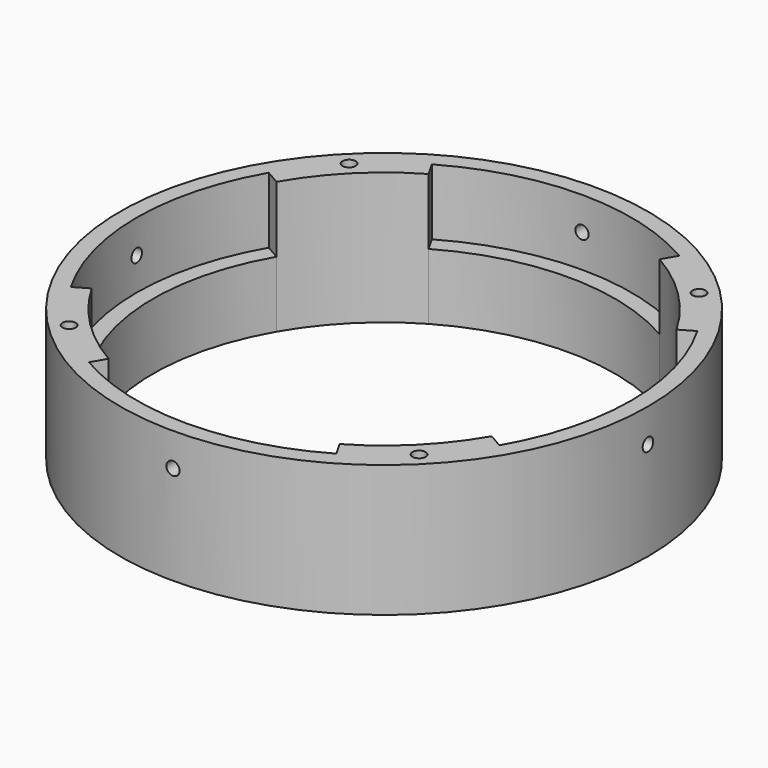
from build123d import *

# Parameters (mm, degrees)
F0_R            = 20
F1_DEPTH        = 10
F2_DEPTH        = 5
F3_DEPTH        = 5
F4_DEPTH        = 5
F5_DEPTH        = 5
F6_DEPTH        = 10
F7_DEPTH        = 10
F8_DEPTH        = 10
F9_DEPTH        = 10
F12_D           = 1
F12_DEPTH       = 20.001
F13_D           = 1
F13_DEPTH       = 20.0010001
F14_D           = 1
F15_D           = 1
F16_D           = 1
F16_CBORE_D     = 1.5
F16_CBORE_DEPTH = 1
F17_D           = 1
F17_CBORE_D     = 1.5
F17_CBORE_DEPTH = 1
F18_D           = 1
F18_CBORE_D     = 1.5
F18_CBORE_DEPTH = 1
F19_D           = 1
F19_CBORE_D     = 1.5
F19_CBORE_DEPTH = 1


with BuildPart() as f1:
    # F0 (on Top) → F1 (new body)
    with BuildSketch(Plane.XY):
        Circle(F0_R)
        with BuildLine():
            ThreePointArc((-16.237976321, -9.375), (-18.75, 0), (-16.237976321, 9.375))
            ThreePointArc((-16.237976321, 9.375), (-13.2582521472, 13.2582521472), (-9.375, 16.237976321))
            ThreePointArc((-9.375, 16.237976321), (0, 18.75), (9.375, 16.237976321))
            ThreePointArc((9.375, 16.237976321), (13.2582521472, 13.2582521472), (16.237976321, 9.375))
            ThreePointArc((16.237976321, 9.375), (18.75, 0), (16.237976321, -9.375))
            ThreePointArc((16.237976321, -9.375), (13.2582521472, -13.2582521472), (9.375, -16.237976321))
            ThreePointArc((9.375, -16.237976321), (0, -18.75), (-9.375, -16.237976321))
            ThreePointArc((-9.375, -16.237976321), (-13.2582521472, -13.2582521472), (-16.237976321, -9.375))
        make_face(mode=Mode.SUBTRACT)
    extrude(amount=F1_DEPTH)

    # F0 (on Top) → F2 (join)
    with BuildSketch(Plane.XY):
        with BuildLine():
            ThreePointArc((-15.1554445662, -8.75), (-17.5, 0), (-15.1554445662, 8.75))
            Line((-15.1554445662, 8.75), (-16.237976321, 9.375))
            ThreePointArc((-16.237976321, 9.375), (-18.75, 0), (-16.237976321, -9.375))
            Line((-16.237976321, -9.375), (-15.1554445662, -8.75))
        make_face()
    extrude(amount=F2_DEPTH)

    # F0 (on Top) → F3 (join)
    with BuildSketch(Plane.XY):
        with BuildLine():
            Line((-9.375, 16.237976321), (-8.75, 15.1554445662))
            ThreePointArc((-8.75, 15.1554445662), (0, 17.5), (8.75, 15.1554445662))
            Line((8.75, 15.1554445662), (9.375, 16.237976321))
            ThreePointArc((9.375, 16.237976321), (0, 18.75), (-9.375, 16.237976321))
        make_face()
    extrude(amount=F3_DEPTH)

    # F0 (on Top) → F4 (join)
    with BuildSketch(Plane.XY):
        with BuildLine():
            ThreePointArc((8.75, -15.1554445662), (0, -17.5), (-8.75, -15.1554445662))
            Line((-8.75, -15.1554445662), (-9.375, -16.237976321))
            ThreePointArc((-9.375, -16.237976321), (0, -18.75), (9.375, -16.237976321))
            Line((9.375, -16.237976321), (8.75, -15.1554445662))
        make_face()
    extrude(amount=F4_DEPTH)

    # F0 (on Top) → F5 (join)
    with BuildSketch(Plane.XY):
        with BuildLine():
            Line((16.237976321, 9.375), (15.1554445662, 8.75))
            ThreePointArc((15.1554445662, 8.75), (17.5, 0), (15.1554445662, -8.75))
            Line((15.1554445662, -8.75), (16.237976321, -9.375))
            ThreePointArc((16.237976321, -9.375), (18.75, 0), (16.237976321, 9.375))
        make_face()
    extrude(amount=F5_DEPTH)

    # F0 (on Top) → F6 (join)
    with BuildSketch(Plane.XY):
        with BuildLine():
            Line((-16.237976321, 9.375), (-15.1554445662, 8.75))
            ThreePointArc((-15.1554445662, 8.75), (-12.3743686708, 12.3743686708), (-8.75, 15.1554445662))
            Line((-8.75, 15.1554445662), (-9.375, 16.237976321))
            ThreePointArc((-9.375, 16.237976321), (-13.2582521472, 13.2582521472), (-16.237976321, 9.375))
        make_face()
    extrude(amount=F6_DEPTH)

    # F0 (on Top) → F7 (join)
    with BuildSketch(Plane.XY):
        with BuildLine():
            ThreePointArc((-8.75, -15.1554445662), (-12.3743686708, -12.3743686708), (-15.1554445662, -8.75))
            Line((-15.1554445662, -8.75), (-16.237976321, -9.375))
            ThreePointArc((-16.237976321, -9.375), (-13.2582521472, -13.2582521472), (-9.375, -16.237976321))
            Line((-9.375, -16.237976321), (-8.75, -15.1554445662))
        make_face()
    extrude(amount=F7_DEPTH)

    # F0 (on Top) → F8 (join)
    with BuildSketch(Plane.XY):
        with BuildLine():
            ThreePointArc((15.1554445662, -8.75), (12.3743686708, -12.3743686708), (8.75, -15.1554445662))
            Line((8.75, -15.1554445662), (9.375, -16.237976321))
            ThreePointArc((9.375, -16.237976321), (13.2582521472, -13.2582521472), (16.237976321, -9.375))
            Line((16.237976321, -9.375), (15.1554445662, -8.75))
        make_face()
    extrude(amount=F8_DEPTH)

    # F0 (on Top) → F9 (join)
    with BuildSketch(Plane.XY):
        with BuildLine():
            Line((9.375, 16.237976321), (8.75, 15.1554445662))
            ThreePointArc((8.75, 15.1554445662), (12.3743686708, 12.3743686708), (15.1554445662, 8.75))
            Line((15.1554445662, 8.75), (16.237976321, 9.375))
            ThreePointArc((16.237976321, 9.375), (13.2582521472, 13.2582521472), (9.375, 16.237976321))
        make_face()
    extrude(amount=F9_DEPTH)

    # F12 (through all, one way)
    with BuildSketch(Plane.YZ):
        with Locations((0, 7.4741876426)):
            Circle(F12_D / 2)
    extrude(amount=-F12_DEPTH, mode=Mode.SUBTRACT)

    # F13 (through all, one way)
    with BuildSketch(Plane.XZ):
        with Locations((0, 7.5)):
            Circle(F13_D / 2)
    extrude(amount=-F13_DEPTH, mode=Mode.SUBTRACT)

    # F14 (through all)
    with Locations(Plane(origin=(0, 0, 0), x_dir=(1, 0, 0), z_dir=(0, 1, 0))):
        with Locations((0, -7.5)):
            Hole(F14_D / 2)

    # F15 (through all)
    with Locations(Plane(origin=(0, 0, 0), x_dir=(0, 1, 0), z_dir=(-1, 0, 0))):
        with Locations((0, -7.4741876426)):
            Hole(F15_D / 2)

    # F16 (through all)
    with Locations(Plane(origin=(0, 0, 0), x_dir=(1, 0, 0), z_dir=(0, 0, -1))):
        with Locations((-13.2582521472, 13.2582521472)):
            CounterBoreHole(F16_D / 2, F16_CBORE_D / 2, F16_CBORE_DEPTH)

    # F17 (through all)
    with Locations(Plane(origin=(0, 0, 0), x_dir=(1, 0, 0), z_dir=(0, 0, -1))):
        with Locations((13.2582521472, 13.2582521472)):
            CounterBoreHole(F17_D / 2, F17_CBORE_D / 2, F17_CBORE_DEPTH)

    # F18 (through all)
    with Locations(Plane(origin=(0, 0, 0), x_dir=(1, 0, 0), z_dir=(0, 0, -1))):
        with Locations((13.2582521472, -13.2582521472)):
            CounterBoreHole(F18_D / 2, F18_CBORE_D / 2, F18_CBORE_DEPTH)

    # F19 (through all)
    with Locations(Plane(origin=(0, 0, 0), x_dir=(1, 0, 0), z_dir=(0, 0, -1))):
        with Locations((-13.2582521472, -13.2582521472)):
            CounterBoreHole(F19_D / 2, F19_CBORE_D / 2, F19_CBORE_DEPTH)


solid = f1.part
